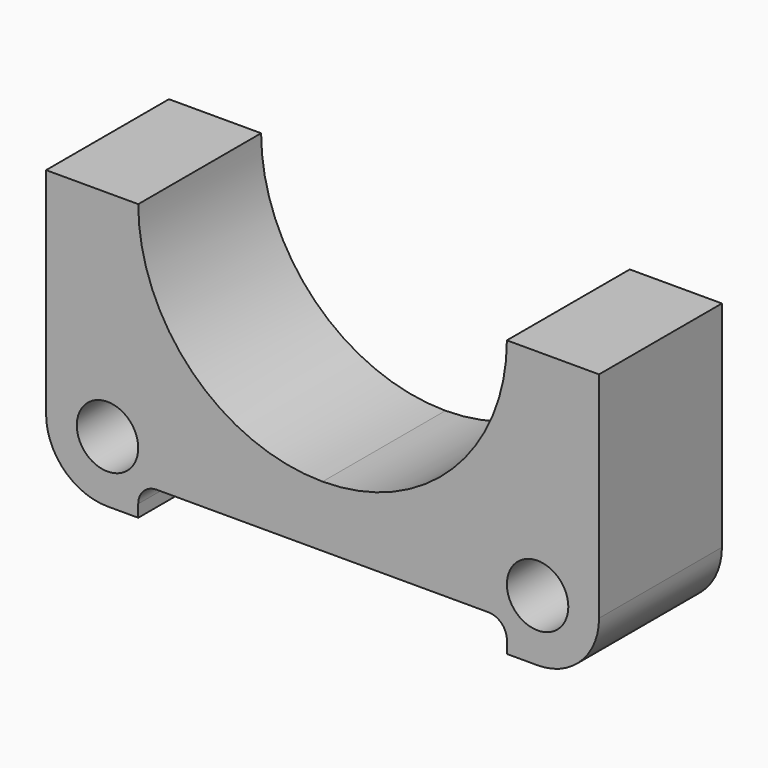
from build123d import *

# Parameters (mm, degrees)
F0_R     = 10
F1_DEPTH = 25


with BuildPart() as f1:
    # F0 (on Front) → F1 (new body, symmetric)
    with BuildSketch(Plane.XZ):
        with BuildLine():
            Line((-60, 0), (-90, 0))
            Line((-90, 0), (-90, -69.879413))
            ThreePointArc((-90, -69.879413), (-84.142136, -84.021549), (-70, -89.879413))
            Line((-70, -89.879413), (-60, -89.879413))
            Line((-60, -89.879413), (-60, -85.879413))
            ThreePointArc((-60, -85.879413), (-58.242641, -81.636772), (-54, -79.879413))
            Line((-54, -79.879413), (0, -79.879413))
            Line((0, -79.879413), (54, -79.879413))
            ThreePointArc((54, -79.879413), (58.242641, -81.636772), (60, -85.879413))
            Line((60, -85.879413), (60, -89.879413))
            Line((60, -89.879413), (70, -89.879413))
            ThreePointArc((70, -89.879413), (84.142136, -84.021549), (90, -69.879413))
            Line((90, -69.879413), (90, 0))
            Line((90, 0), (60, 0))
            ThreePointArc((60, 0), (42.426407, -42.426407), (0, -60))
            ThreePointArc((0, -60), (-42.426407, -42.426407), (-60, 0))
        make_face()
        with Locations((-70, -69.879413)):
            Circle(F0_R, mode=Mode.SUBTRACT)
        with Locations((70, -69.879413)):
            Circle(F0_R, mode=Mode.SUBTRACT)
    extrude(amount=F1_DEPTH, both=True)


solid = f1.part
